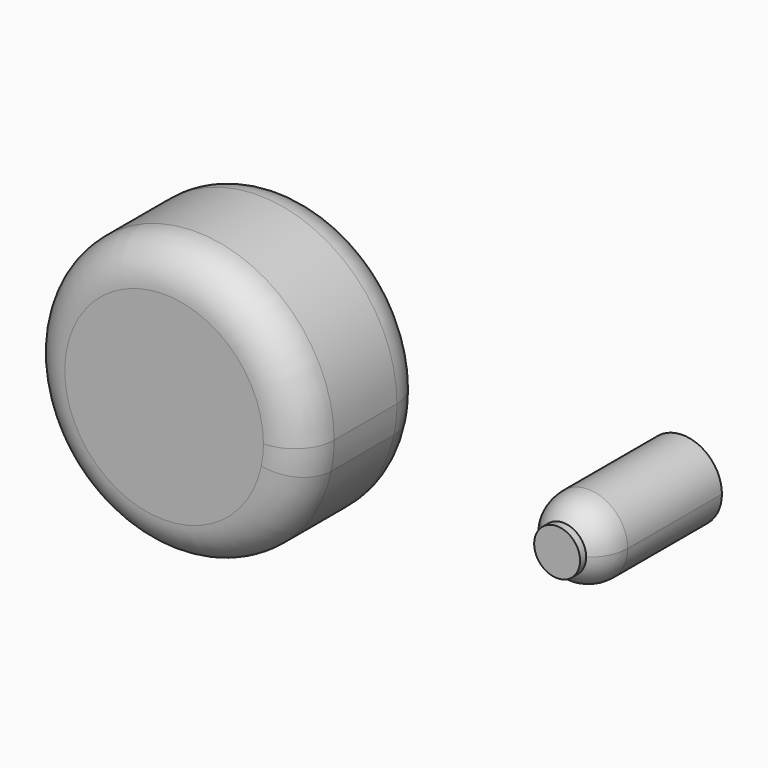
from build123d import *

# Parameters (mm, degrees)
F2_DEPTH = 50.8
F1_R     = 7.41128256
F3_R     = 12.7
F4_R     = 12.7


with BuildPart() as f2:
    # F0 (on Front) → F2 (new body)
    with BuildSketch(Plane.XZ):
        with BuildLine():
            ThreePointArc((24.8633552195, 5.1936083051), (-25.2654826055, -2.6106299454), (25.4, 0))
            ThreePointArc((25.4, 0), (25.2654826055, 2.6106299454), (24.8633552195, 5.1936083051))
        make_face()
        with BuildLine():
            ThreePointArc((24.8633552195, 5.1936083051), (-25.2654826055, -2.6106299454), (25.4, 0))
            ThreePointArc((25.4, 0), (25.2654826055, 2.6106299454), (24.8633552195, 5.1936083051))
        make_face()
    extrude(amount=F2_DEPTH)


with BuildPart() as f2b:
    # F0 (on Front) → F2, piece 2 (new body)
    with BuildSketch(Plane.XZ):
        with BuildLine():
            ThreePointArc((139.7, 0), (129.6555030079, 12.4192714672), (115.4105033425, 5.1936083051))
            ThreePointArc((115.4105033425, 5.1936083051), (124.3444969921, -12.4192714672), (139.7, 0))
        make_face()
    extrude(amount=F2_DEPTH)

    # F4
    f4_edges = [f2b.edges().sort_by_distance(p)[0] for p in [
        (114.3, -50.8, 0),
    ]]
    fillet(f4_edges, radius=F4_R)


with BuildPart() as f2c:
    # F1 (on face) → F2, piece 3 (new body)
    with BuildSketch(Plane.XZ):
        with BuildLine():
            ThreePointArc((43.862228163, -9.1630918905), (44.5717690666, -4.6059434098), (44.8091208619, 0))
            ThreePointArc((44.8091208619, 0), (-44.5717690666, 4.6059434098), (43.862228163, -9.1630918905))
        make_face()
    extrude(amount=F2_DEPTH)

    # F3
    f3_edges = [f2c.edges().sort_by_distance(p)[0] for p in [
        (-43.862228, -50.8, 9.163092),
        (-43.862228, 0, 9.163092),
    ]]
    fillet(f3_edges, radius=F3_R)


with BuildPart() as f2d:
    # F1 (on face) → F2, piece 4 (new body)
    with BuildSketch(Plane.XZ):
        with Locations((127.0564943552, 0)):
            Circle(F1_R)
    extrude(amount=F2_DEPTH)


solid = Compound([f2.part, f2b.part, f2c.part, f2d.part])
